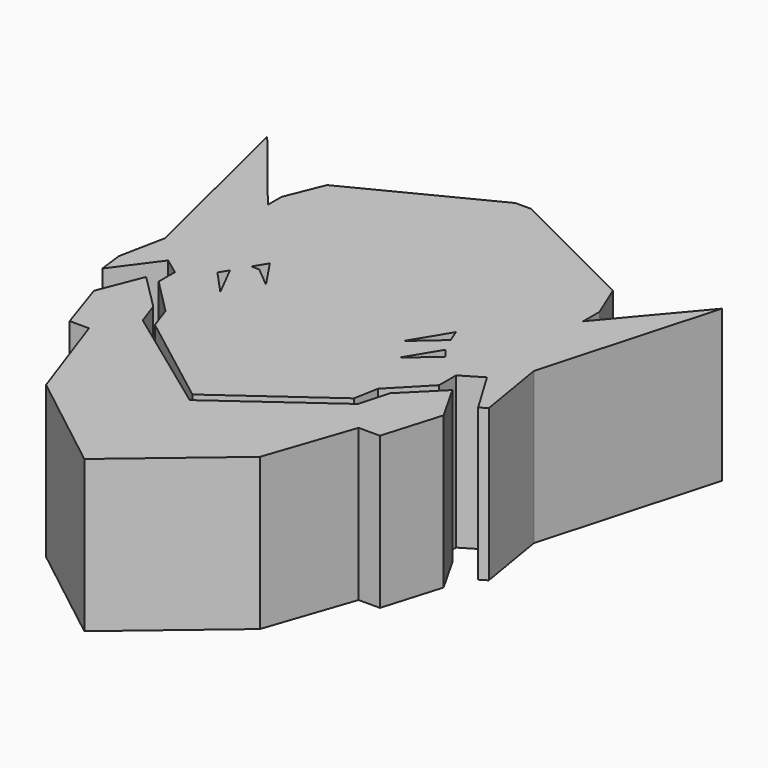
from build123d import *

# Parameters (mm, degrees)
F1_DEPTH = 25.4


with BuildPart() as f1:
    # F0 (on Top) → F1 (new body)
    with BuildSketch(Plane.XY):
        Polygon((-27.522078, -3.749137), (-24.625016, -12.440319), (-21.387124, -12.440319), (-15.763419, -28.459361), (1.278116, -41.751757), (18.830895, -26.925623), (23.77294, -12.440319), (27.351663, -12.440319), (30.248724, -2.726645), (26.670001, 3.578722), (20.875881, -2.215399), (19.470939, -7.220506), (1.618946, -20.109011), (-17.297156, -6.305368), (-18.673169, -2.385815), (-24.625016, 3.578722), align=None)
        Polygon((0, -12.474165), (-22.53563, 6.986716), (-22.53563, 3.578722), (-16.615495, -2.385815), (-15.252173, -6.305368), (0.903641, -18.642962), (18.06899, -6.305368), (18.830895, -2.215399), (24.454599, 3.578722), (24.454599, 7.123598), align=None)
        Polygon((-28.203737, 18.575272), (-29.567061, 13.633227), (-31.100798, 5.964537), (-30.589553, 1.874569), (-25.306677, 9.032013), (-22.53563, 6.986716), (0, -12.474165), (24.454599, 7.123598), (27.953023, 9.222652), (32.388937, 1.829458), (33.591868, 2.551216), (31.612046, 14.485304), (30.419139, 19.086517), (23.77294, 25.732715), (17.297158, 22.153994), (1.448531, 41.24051), (-14.400096, 22.324407), (-20.023802, 25.732715), align=None)
        Polygon((-14.400096, 6.328176), (-18.149232, 10.395336), (-17.238215, 11.898515), align=None, mode=Mode.SUBTRACT)
        Polygon((-11.020094, 11.653411), (-14.400096, 14.485304), (-15.742762, 14.485304), (-14.400096, 16.700704), align=None, mode=Mode.SUBTRACT)
        Polygon((15.436412, 6.328176), (18.830895, 11.929073), (20.084595, 10.395336), align=None, mode=Mode.SUBTRACT)
        Polygon((12.964475, 10.395336), (16.78591, 16.700704), (17.638725, 14.485304), align=None, mode=Mode.SUBTRACT)
        Polygon((-24.965847, 29.481854), (-37.065335, 44.478402), (-29.567061, 13.633227), (-28.203737, 18.575272), (-20.023802, 25.732715), (-14.400096, 22.324407), (1.448531, 41.24051), (17.297158, 22.153994), (23.77294, 25.732715), (30.419139, 19.086517), (31.612046, 14.485304), (39.791983, 43.626327), (27.862908, 29.481854), (27.862908, 32.89016), (25.477091, 38.684282), (2.641438, 50.102107), (0, 50.102107), (-22.409616, 38.684282), (-24.965847, 32.378912), align=None)
    extrude(amount=F1_DEPTH)


solid = f1.part
